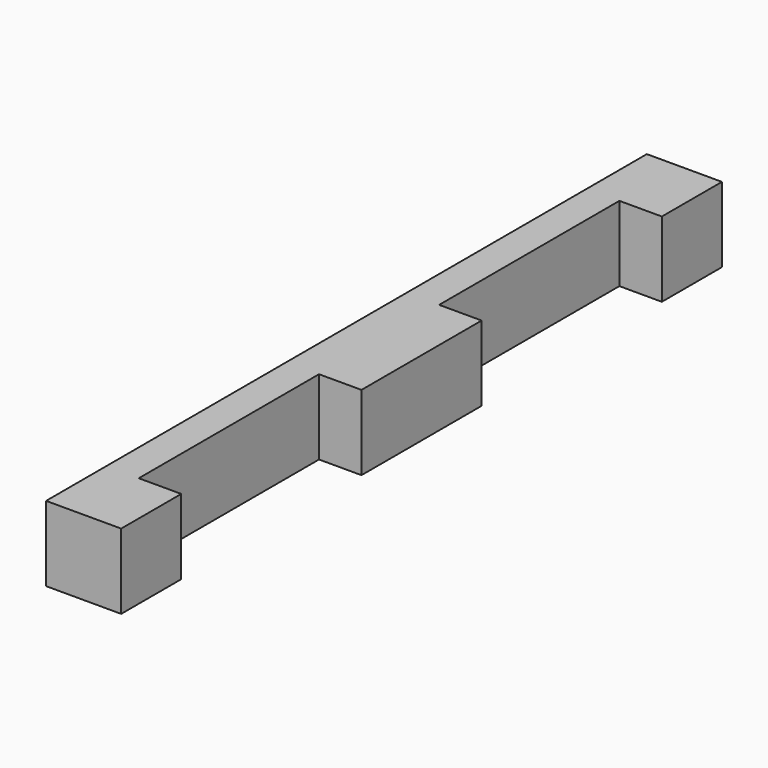
from build123d import *

# Parameters (mm, degrees)
F0_W     = 50
F0_H     = 5
F1_DEPTH = 5
F2_W     = 2.8276949842
F2_H     = 15
F3_DEPTH = 5.1


with BuildPart() as f1:
    # F0 (on Right) → F1 (new body)
    with BuildSketch(Plane.YZ):
        with Locations((-7.4186130613, -1.9997399262)):
            Rectangle(F0_W, F0_H)
    extrude(amount=F1_DEPTH)

    # F2 (on face) → F3 (cut)
    with BuildSketch(Plane(origin=(0, 0, -4.4997399262), x_dir=(1, 0, 0), z_dir=(0, 0, -1))):
        with Locations((3.5861525079, 19.9186130613)):
            Rectangle(F2_W, F2_H)
        with Locations((3.5861525079, -5.0813869387)):
            Rectangle(F2_W, F2_H)
    extrude(amount=-F3_DEPTH, mode=Mode.SUBTRACT)


solid = f1.part
